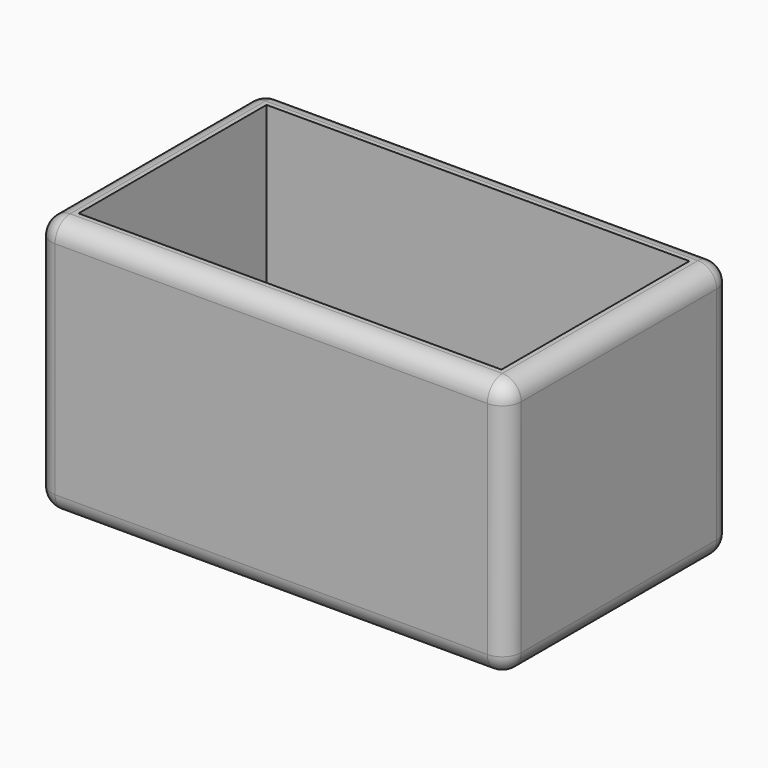
from build123d import *

# Parameters (mm, degrees)
F0_W     = 127
F0_H     = 69.85
F1_DEPTH = 38.1
F2_W     = 114.3
F2_H     = 63.5
F3_DEPTH = 63.5
F4_R     = 5.08


with BuildPart() as f1:
    # F0 (on Front) → F1 (new body, symmetric)
    with BuildSketch(Plane.XZ):
        Rectangle(F0_W, F0_H)
    extrude(amount=F1_DEPTH, both=True)

    # F2 (on face) → F3 (cut)
    with BuildSketch(Plane.XY.offset(34.925)):
        Rectangle(F2_W, F2_H)
    extrude(amount=-F3_DEPTH, mode=Mode.SUBTRACT)

    # F4
    f4_edges = [f1.edges().sort_by_distance(p)[0] for p in [
        (0, -38.1, 34.925),
        (-63.5, 0, 34.925),
        (0, 38.1, 34.925),
        (63.5, 0, 34.925),
        (63.5, 38.1, 0),
        (-63.5, 38.1, 0),
        (0, 38.1, -34.925),
        (-63.5, 0, -34.925),
        (0, -38.1, -34.925),
        (63.5, -38.1, 0),
        (63.5, 0, -34.925),
        (-63.5, -38.1, 0),
    ]]
    fillet(f4_edges, radius=F4_R)


solid = f1.part
